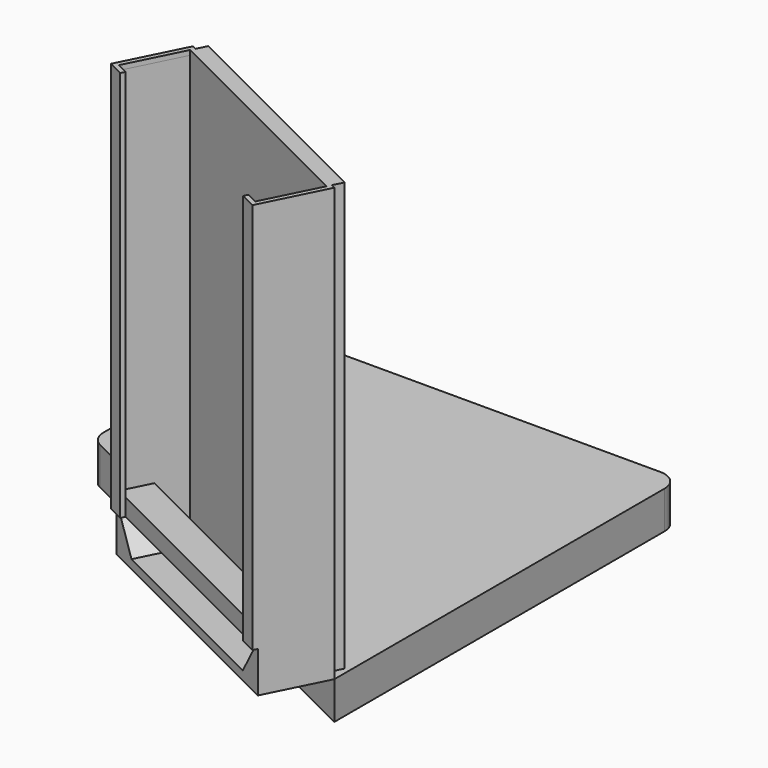
from build123d import *

# Parameters (mm, degrees)
F1_DEPTH  = 12
F2_W      = 84
F2_H      = 138
F3_DEPTH  = 21
F4_T      = -1.5
F6_DEPTH  = 5
F8_DEPTH  = 17
F10_DEPTH = 15
F11_DEPTH = 5
F12_W     = 5.5
F12_H     = 124.9318679885
F13_DEPTH = 1.5
F14_W     = 5.5
F14_H     = 124.9318679885
F15_DEPTH = 1.5


with BuildPart() as f1:
    # F0 (on Top) → F1 (new body)
    with BuildSketch(Plane.XY):
        with BuildLine():
            Line((57.0216850877, 32.5807073594), (-58.2783149123, 32.5807073594))
            ThreePointArc((-58.2783149123, 32.5807073594), (-62.7684429729, 30.7208354199), (-64.6283149123, 26.2307073594))
            Line((-64.6283149123, 26.2307073594), (-64.6283149123, -37.4947768121))
            ThreePointArc((-64.6283149123, -37.4947768121), (-63.6799475454, -40.833169374), (-61.1181212437, -43.1743894749))
            Line((-61.1181212437, -43.1743894749), (63.3716850877, -105.4192926406))
            Line((63.3716850877, -105.4192926406), (63.3716850877, 26.2307073594))
            ThreePointArc((63.3716850877, 26.2307073594), (61.5118131482, 30.7208354199), (57.0216850877, 32.5807073594))
        make_face()
    extrude(amount=F1_DEPTH)


with BuildPart() as f3:
    # F2 (on face) → F3 (new body)
    with BuildSketch(Plane(origin=(-29.4933800387, -58.9867600774, 0), x_dir=(0.894427191, -0.4472135955, 0), z_dir=(-0.4472135955, -0.894427191, 0))):
        with Locations((61.8262991788, 81)):
            Rectangle(F2_W, F2_H)
    extrude(amount=F3_DEPTH)

    # F4
    f4_openings = [f3.faces().sort_by_distance(p)[0] for p in [
        (16.414258, -105.419293, 81),
    ]]
    offset(amount=F4_T, openings=f4_openings)

    # F5 (on face) → F6 (cut)
    with BuildSketch(Plane(origin=(0, 0, 148.5), x_dir=(1, 0, 0), z_dir=(0, 0, -1))):
        Polygon((-19.8100436753, 87.3071420229), (-11.0893785631, 69.8658117984), (61.3592239079, 106.0901130339), (52.6385587957, 123.5314432584), align=None)
    extrude(amount=-F6_DEPTH, mode=Mode.SUBTRACT)

    # F7 (on face) → F8 (join)
    with BuildSketch(Plane.XY.offset(13.5)):
        Polygon((52.6385587957, -123.5314432584), (56.9988913518, -114.8107781461), (-15.4497111192, -78.5864769106), (-19.8100436753, -87.3071420229), align=None)
    extrude(amount=F8_DEPTH)

    # F9 (on face) → F10 (cut)
    with BuildSketch(Plane(origin=(-38.8848655442, -77.7697310884, 0), x_dir=(0.894427191, -0.4472135955, 0), z_dir=(-0.4472135955, -0.894427191, 0))):
        Polygon((102.3262991788, 25.0681320115), (21.3262991788, 25.0681320115), (28.7666151289, 14.8007180542), (94.8859832287, 14.8007180542), align=None)
    extrude(amount=-F10_DEPTH, mode=Mode.SUBTRACT)

    # F11 (add): a face of the model
    f11_faces = [f3.faces().sort_by_distance(p)[0] for p in [
        (25.1349226724, -87.9779624161, 81.75),
    ]]
    extrude(f11_faces, amount=-F11_DEPTH)

    # F12 (on face) → F13 (join)
    with BuildSketch(Plane(origin=(-38.8848655442, -77.7697310884, 0), x_dir=(0.894427191, -0.4472135955, 0), z_dir=(-0.4472135955, -0.894427191, 0))):
        with Locations((101.0762991788, 87.5340660057)):
            Rectangle(F12_W, F12_H)
    extrude(amount=F13_DEPTH)

    # F14 (on face) → F15 (join)
    with BuildSketch(Plane(origin=(-38.8848655442, -77.7697310884, 0), x_dir=(0.894427191, -0.4472135955, 0), z_dir=(-0.4472135955, -0.894427191, 0))):
        with Locations((22.5762991788, 87.5340660057)):
            Rectangle(F14_W, F14_H)
    extrude(amount=F15_DEPTH)


solid = Compound([f1.part, f3.part])
